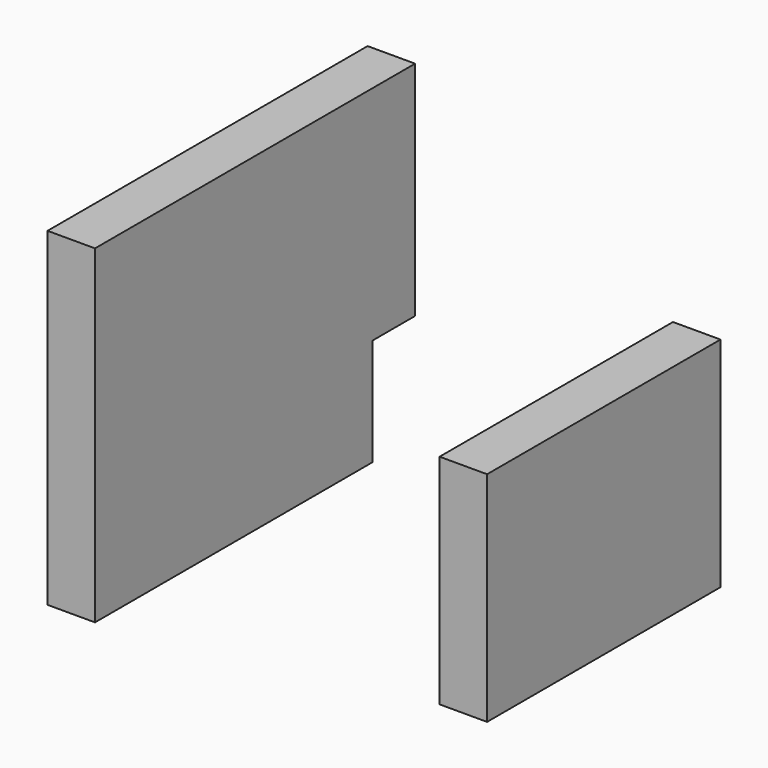
from build123d import *

# Parameters (mm, degrees)
F0_W     = 156.0377255082
F0_H     = 116.6281923652
F1_DEPTH = 25.4
F0_W_2   = 9.80810076
F0_H_2   = 40.1830375195
F0_W_3   = 78.46467942


with BuildPart() as f1:
    # F0 (on Right) → F1 (new body)
    with BuildSketch(Plane.YZ):
        with Locations((20.9536366165, -24.6335677803)):
            Rectangle(F0_W, F0_H)
    extrude(amount=F1_DEPTH)


with BuildPart() as f1b:
    # F0 (on Right) → F1, piece 2 (new body)
    with BuildSketch(Plane.YZ):
        Polygon((-123.9385381341, 127.7665048838), (-105.2140146494, 127.7665048838), (-105.2140146494, 246.6039955616), (-133.7466388941, 246.6039955616), (-133.7466388941, 167.9495424032), (-123.9385381341, 167.9495424032), align=None)
        with Locations((-128.8425885141, 147.8580236435)):
            Rectangle(F0_W_2, F0_H_2)
        Polygon((-133.7466388941, 70.476859808), (-133.7466388941, 127.7665048838), (-212.2113183141, 127.7665048838), (-319.2086219788, 127.7665048838), (-319.2086219788, 70.476859808), align=None)
        with Locations((-172.9789786041, 147.8580236435)):
            Rectangle(F0_W_3, F0_H_2)
        Polygon((-133.7466388941, 167.9495424032), (-133.7466388941, 246.6039955616), (-319.2086219788, 246.6039955616), (-319.2086219788, 127.7665048838), (-212.2113183141, 127.7665048838), (-212.2113183141, 167.9495424032), align=None)
    extrude(amount=F1_DEPTH)


solid = Compound([f1.part, f1b.part])
